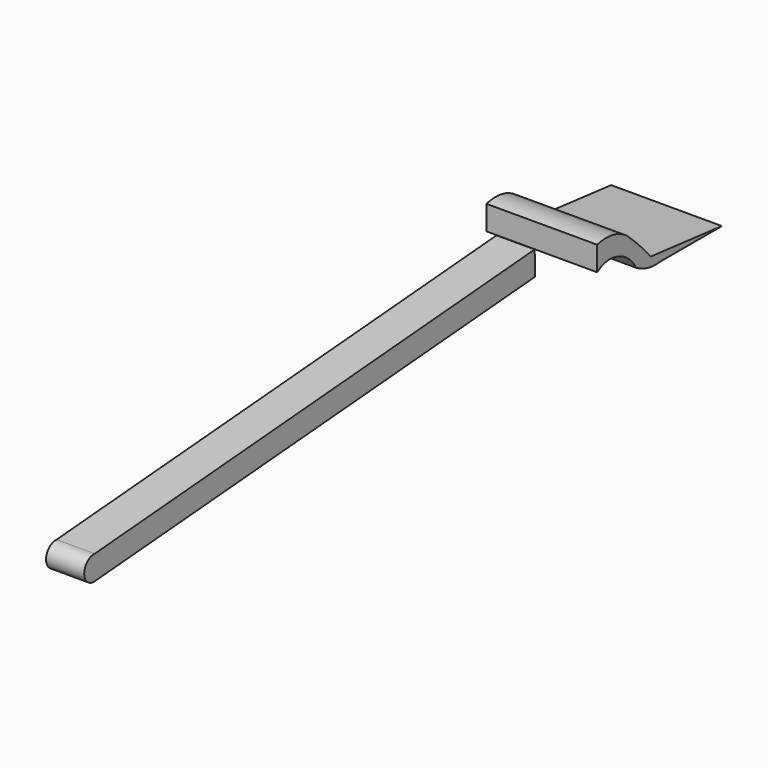
from build123d import *

# Parameters (mm, degrees)
F1_DEPTH      = 3.1496
F1_DEPTH_BACK = 3.1496
F2_DEPTH      = 9.144
F2_DEPTH_BACK = 9.144


with BuildPart() as f1:
    # F0 (on Right) → F1 (new body, two sides)
    with BuildSketch(Plane.YZ) as f1_sk:
        with BuildLine():
            Line((-5.409247, 7.314372), (-96.208347, 0))
            ThreePointArc((-96.208347, 0), (-98.380641, -2.004341), (-96.208347, -4.008681))
            Line((-96.208347, -4.008681), (-5.324691, 3.312502))
            Line((-5.324691, 3.312502), (-5.409247, 7.314372))
        make_face()
    extrude(amount=F1_DEPTH)
    extrude(f1_sk.sketch, amount=-F1_DEPTH_BACK)


with BuildPart() as f2:
    # F0 (on Right) → F2 (new body, two sides)
    with BuildSketch(Plane.YZ) as f2_sk:
        with BuildLine():
            ThreePointArc((5.489694, 3.775598), (4.104408, 4.41794), (2.588409, 4.600608))
            ThreePointArc((2.588409, 4.600608), (4.08842, 4.361715), (5.489694, 3.775598))
        make_face()
        with BuildLine():
            ThreePointArc((6.141854, 6.561893), (3.208281, 7.865981), (0, 7.750117))
            Line((0, 7.750117), (0, 3.741436))
            ThreePointArc((0, 3.741436), (1.23295, 4.355562), (2.588409, 4.600608))
            ThreePointArc((2.588409, 4.600608), (4.104408, 4.41794), (5.489694, 3.775598))
            ThreePointArc((5.489694, 3.775598), (6.948362, 2.642901), (8.022249, 1.140409))
            ThreePointArc((8.022249, 1.140409), (10.484585, 0.120915), (13.146886, 0))
            Line((13.146886, 0), (15.927428, 0))
            Line((15.927428, 0), (25.741109, 0))
            ThreePointArc((25.741109, 0), (18.393135, 0.777972), (11.043155, 1.536762))
            ThreePointArc((11.043155, 1.536762), (8.683554, 4.138133), (6.141854, 6.561893))
        make_face()
    extrude(amount=F2_DEPTH)
    extrude(f2_sk.sketch, amount=-F2_DEPTH_BACK)


solid = Compound([f1.part, f2.part])
